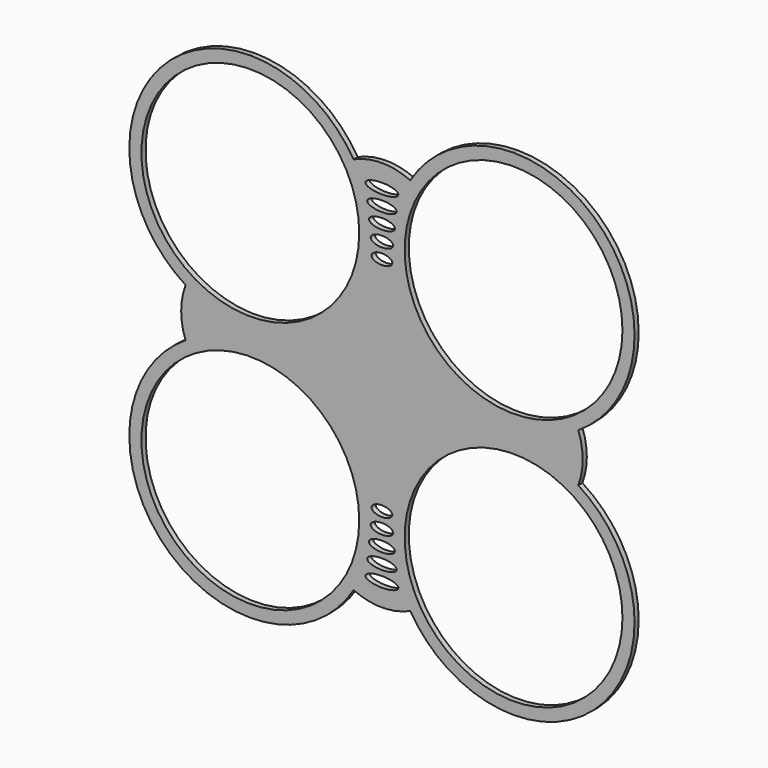
from build123d import *

# Parameters (mm, degrees)
F0_W     = 146.1321562529
F0_H     = 143.1927233934
F1_DEPTH = 1.5
F3_DEPTH = 25
F4_R     = 31.5
F5_DEPTH = 25
F7_DEPTH = 25


with BuildPart() as f1:
    # F0 (on Front) → F1 (new body)
    with BuildSketch(Plane.XZ):
        Rectangle(F0_W, F0_H)
    extrude(amount=F1_DEPTH)

    # F2 (on face) → F3 (cut)
    with BuildSketch(Plane.XZ.offset(1.5)):
        with BuildLine():
            ThreePointArc((-38.0660781264, -71.5963616967), (-62.8148154217, -61.3450990845), (-73.0660781264, -36.5963618274))
            Line((-73.0660781264, -36.5963618274), (-73.0660781264, -71.5963616967))
            Line((-73.0660781264, -71.5963616967), (-38.0660781264, -71.5963616967))
        make_face()
        with BuildLine():
            ThreePointArc((-56.7911237657, -7.0265685657), (-58.0660781264, 0), (-56.7911237657, 7.0265685657))
            ThreePointArc((-56.7911237657, 7.0265685657), (-68.7285682192, 19.7199965278), (-73.0660781264, 36.5963616967))
            Line((-73.0660781264, 36.5963616967), (-73.0660781264, -36.5963618274))
            ThreePointArc((-73.0660781264, -36.5963618274), (-68.7285682507, -19.7199965851), (-56.7911237657, -7.0265685657))
        make_face()
        with BuildLine():
            ThreePointArc((-73.0660781264, 36.5963616967), (-62.814815468, 61.3450990383), (-38.0660781264, 71.5963616967))
            Line((-38.0660781264, 71.5963616967), (-73.0660781264, 71.5963616967))
            Line((-73.0660781264, 71.5963616967), (-73.0660781264, 36.5963616967))
        make_face()
        with BuildLine():
            ThreePointArc((-38.0660781264, 71.5963616967), (-20.941724723, 67.1210487634), (-8.1966193346, 54.8395914405))
            ThreePointArc((-8.1966193346, 54.8395914405), (0, 56.5963616967), (8.1966193346, 54.8395914405))
            ThreePointArc((8.1966193346, 54.8395914405), (20.941724723, 67.1210487634), (38.0660781264, 71.5963616967))
            Line((38.0660781264, 71.5963616967), (-38.0660781264, 71.5963616967))
        make_face()
        with BuildLine():
            ThreePointArc((73.0660781264, 36.5963616967), (68.7285682192, 19.7199965278), (56.7911237657, 7.0265685657))
            ThreePointArc((56.7911237657, 7.0265685657), (58.0660781264, 0), (56.7911237657, -7.0265685657))
            ThreePointArc((56.7911237657, -7.0265685657), (68.7285682192, -19.7199965278), (73.0660781264, -36.5963616967))
            Line((73.0660781264, -36.5963616967), (73.0660781264, 36.5963616967))
        make_face()
        with BuildLine():
            Line((73.0660781264, -71.5963616967), (73.0660781264, -36.5963616967))
            ThreePointArc((73.0660781264, -36.5963616967), (62.8148154218, -61.3450990845), (38.0660779957, -71.5963616967))
            Line((38.0660779957, -71.5963616967), (73.0660781264, -71.5963616967))
        make_face()
        with BuildLine():
            ThreePointArc((-8.1966193346, -54.8395914405), (-20.941724723, -67.1210487634), (-38.0660781264, -71.5963616967))
            Line((-38.0660781264, -71.5963616967), (38.0660779957, -71.5963616967))
            ThreePointArc((38.0660779957, -71.5963616967), (20.941724666, -67.1210487314), (8.1966193346, -54.8395914405))
            ThreePointArc((8.1966193346, -54.8395914405), (0, -56.5963616967), (-8.1966193346, -54.8395914405))
        make_face()
        with BuildLine():
            Line((73.0660781264, 71.5963616967), (38.0660781264, 71.5963616967))
            ThreePointArc((38.0660781264, 71.5963616967), (62.814815468, 61.3450990383), (73.0660781264, 36.5963616967))
            Line((73.0660781264, 36.5963616967), (73.0660781264, 71.5963616967))
        make_face()
    extrude(amount=-F3_DEPTH, mode=Mode.SUBTRACT)

    # F4 (on face) → F5 (cut)
    with BuildSketch(Plane.XZ.offset(1.5)):
        with Locations((-38.0660781264, 36.5963616967)):
            Circle(F4_R)
        with Locations((38.0660781264, 36.5963616967)):
            Circle(F4_R)
        with Locations((38.0660781264, -36.5963616967)):
            Circle(F4_R)
        with Locations((-38.0660781264, -36.5963616967)):
            Circle(F4_R)
    extrude(amount=-F5_DEPTH, mode=Mode.SUBTRACT)

    # F6 (on face) → F7 (cut)
    with BuildSketch(Plane.XZ.offset(1.5)):
        with BuildLine():
            add(Edge.make_bspline(
                [(-4.75, 50.0729352534), (-4.75, 47.474859042), (2.375, 48.7738971477), (9.5, 50.0729352534), (2.375, 51.3719733591), (-4.75, 52.6710114647), (-4.75, 50.0729352534)],
                knots=[0, 0, 0, 2.0943951024, 2.0943951024, 4.1887902048, 4.1887902048, 6.2831853072, 6.2831853072, 6.2831853072], degree=2, weights=[1, 0.5, 1, 0.5, 1, 0.5, 1]))
        make_face()
        with BuildLine():
            add(Edge.make_bspline(
                [(-4.25, 45.5729352534), (-4.25, 42.974859042), (2.125, 44.2738971477), (8.5, 45.5729352534), (2.125, 46.8719733591), (-4.25, 48.1710114647), (-4.25, 45.5729352534)],
                knots=[0, 0, 0, 2.0943951024, 2.0943951024, 4.1887902048, 4.1887902048, 6.2831853072, 6.2831853072, 6.2831853072], degree=2, weights=[1, 0.5, 1, 0.5, 1, 0.5, 1]))
        make_face()
        with BuildLine():
            add(Edge.make_bspline(
                [(-3.75, 41.0729352534), (-3.75, 38.474859042), (1.875, 39.7738971477), (7.5, 41.0729352534), (1.875, 42.3719733591), (-3.75, 43.6710114647), (-3.75, 41.0729352534)],
                knots=[0, 0, 0, 2.0943951024, 2.0943951024, 4.1887902048, 4.1887902048, 6.2831853072, 6.2831853072, 6.2831853072], degree=2, weights=[1, 0.5, 1, 0.5, 1, 0.5, 1]))
        make_face()
        with BuildLine():
            add(Edge.make_bspline(
                [(-3.25, 36.5729352534), (-3.25, 33.974859042), (1.625, 35.2738971477), (6.5, 36.5729352534), (1.625, 37.8719733591), (-3.25, 39.1710114647), (-3.25, 36.5729352534)],
                knots=[0, 0, 0, 2.0943951024, 2.0943951024, 4.1887902048, 4.1887902048, 6.2831853072, 6.2831853072, 6.2831853072], degree=2, weights=[1, 0.5, 1, 0.5, 1, 0.5, 1]))
        make_face()
        with BuildLine():
            add(Edge.make_bspline(
                [(-3, 32.0729352534), (-3, 29.474859042), (1.5, 30.7738971477), (6, 32.0729352534), (1.5, 33.3719733591), (-3, 34.6710114647), (-3, 32.0729352534)],
                knots=[0, 0, 0, 2.0943951024, 2.0943951024, 4.1887902048, 4.1887902048, 6.2831853072, 6.2831853072, 6.2831853072], degree=2, weights=[1, 0.5, 1, 0.5, 1, 0.5, 1]))
        make_face()
        with BuildLine():
            add(Edge.make_bspline(
                [(-3.25, -36.5729352534), (-3.25, -39.1710114647), (1.625, -37.8719733591), (6.5, -36.5729352534), (1.625, -35.2738971477), (-3.25, -33.974859042), (-3.25, -36.5729352534)],
                knots=[0, 0, 0, 2.0943951024, 2.0943951024, 4.1887902048, 4.1887902048, 6.2831853072, 6.2831853072, 6.2831853072], degree=2, weights=[1, 0.5, 1, 0.5, 1, 0.5, 1]))
        make_face()
        with BuildLine():
            add(Edge.make_bspline(
                [(-4.75, -50.0729352534), (-4.75, -52.6710114647), (2.375, -51.3719733591), (9.5, -50.0729352534), (2.375, -48.7738971477), (-4.75, -47.474859042), (-4.75, -50.0729352534)],
                knots=[0, 0, 0, 2.0943951024, 2.0943951024, 4.1887902048, 4.1887902048, 6.2831853072, 6.2831853072, 6.2831853072], degree=2, weights=[1, 0.5, 1, 0.5, 1, 0.5, 1]))
        make_face()
        with BuildLine():
            add(Edge.make_bspline(
                [(-3, -32.0729352534), (-3, -34.6710114647), (1.5, -33.3719733591), (6, -32.0729352534), (1.5, -30.7738971477), (-3, -29.474859042), (-3, -32.0729352534)],
                knots=[0, 0, 0, 2.0943951024, 2.0943951024, 4.1887902048, 4.1887902048, 6.2831853072, 6.2831853072, 6.2831853072], degree=2, weights=[1, 0.5, 1, 0.5, 1, 0.5, 1]))
        make_face()
        with BuildLine():
            add(Edge.make_bspline(
                [(-4.25, -45.5729352534), (-4.25, -48.1710114647), (2.125, -46.8719733591), (8.5, -45.5729352534), (2.125, -44.2738971477), (-4.25, -42.974859042), (-4.25, -45.5729352534)],
                knots=[0, 0, 0, 2.0943951024, 2.0943951024, 4.1887902048, 4.1887902048, 6.2831853072, 6.2831853072, 6.2831853072], degree=2, weights=[1, 0.5, 1, 0.5, 1, 0.5, 1]))
        make_face()
        with BuildLine():
            add(Edge.make_bspline(
                [(-3.75, -41.0729352534), (-3.75, -43.6710114647), (1.875, -42.3719733591), (7.5, -41.0729352534), (1.875, -39.7738971477), (-3.75, -38.474859042), (-3.75, -41.0729352534)],
                knots=[0, 0, 0, 2.0943951024, 2.0943951024, 4.1887902048, 4.1887902048, 6.2831853072, 6.2831853072, 6.2831853072], degree=2, weights=[1, 0.5, 1, 0.5, 1, 0.5, 1]))
        make_face()
    extrude(amount=-F7_DEPTH, mode=Mode.SUBTRACT)


solid = f1.part
